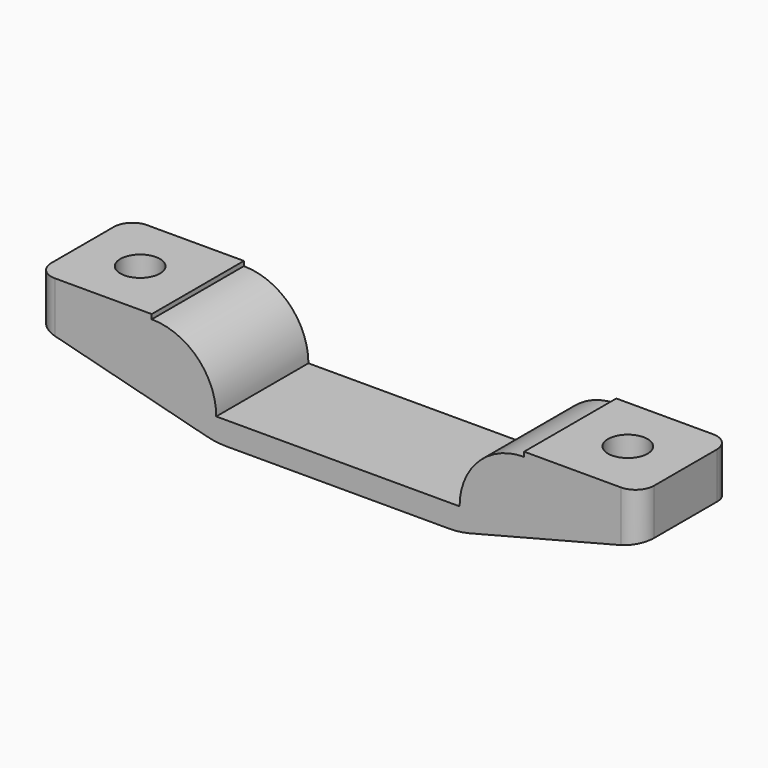
from build123d import *

# Parameters (mm, degrees)
PAD_DEPTH       = 25
SKETCH001_R     = 4.3
POCKET_DEPTH    = 20.001
POCKET001_DEPTH = 15.001
FILLET_R        = 4
FILLET001_R     = 18


with BuildPart() as part:
    # Sketch → Pad (new body)
    with BuildSketch(Plane.XZ):
        with BuildLine():
            Line((40.4, -5.4), (65.4, -5.4))
            Line((65.4, -5.4), (65.4, -15.4))
            Line((26.4, -25.4), (65.4, -15.4))
            Line((-26.4, -25.4), (26.4, -25.4))
            Line((-65.4, -15.4), (-26.4, -25.4))
            Line((-65.4, -15.4), (-65.4, -5.4))
            Line((-65.4, -5.4), (-40.4, -5.4))
            Line((-40.4, -6.4), (-40.4, -5.4))
            ThreePointArc((-26.4, -20.4), (-30.500505, -10.500505), (-40.4, -6.4))
            Line((-26.4, -20.4), (26.4, -20.4))
            ThreePointArc((40.4, -6.4), (30.500505, -10.500505), (26.4, -20.4))
            Line((40.4, -6.4), (40.4, -5.4))
        make_face()
    extrude(amount=PAD_DEPTH)

    # Sketch001 (on Face8 of Pad) → Pocket (cut, through all)
    with BuildSketch(Plane(origin=(0, 0, -5.4), x_dir=(-1, 0, 0), z_dir=(0, 0, 1))):
        with Locations((-52.9, 12.5)):
            Circle(SKETCH001_R)
        with Locations((52.9, 12.5)):
            Circle(SKETCH001_R)
    extrude(amount=-POCKET_DEPTH, mode=Mode.SUBTRACT)

    # Sketch002 (on Face13 of Pocket) → Pocket001 (cut, through all)
    with BuildSketch(Plane(origin=(0, 0, -10.4), x_dir=(-1, 0, 0), z_dir=(0, 0, 1))):
        Polygon((-46.3, 8.689488), (-46.3, 16.310512), (-52.9, 20.121024), (-59.5, 16.310512), (-59.5, 8.689488), (-52.9, 4.878976), align=None)
        Polygon((59.5, 8.689488), (59.5, 16.310512), (52.9, 20.121024), (46.3, 16.310512), (46.3, 8.689488), (52.9, 4.878976), align=None)
    extrude(amount=-POCKET001_DEPTH, mode=Mode.SUBTRACT)

    # Fillet
    fillet_edges = [part.edges().sort_by_distance(p)[0] for p in [
        (-65.4, -25, -10.4),
        (-65.4, 0, -10.4),
        (65.4, -25, -10.4),
        (65.4, 0, -10.4),
    ]]
    fillet(fillet_edges, radius=FILLET_R)

    # Fillet001
    fillet001_edges = [part.edges().sort_by_distance(p)[0] for p in [
        (-26.4, -12.5, -25.4),
        (26.4, -12.5, -25.4),
    ]]
    fillet(fillet001_edges, radius=FILLET001_R)


solid = part.part
